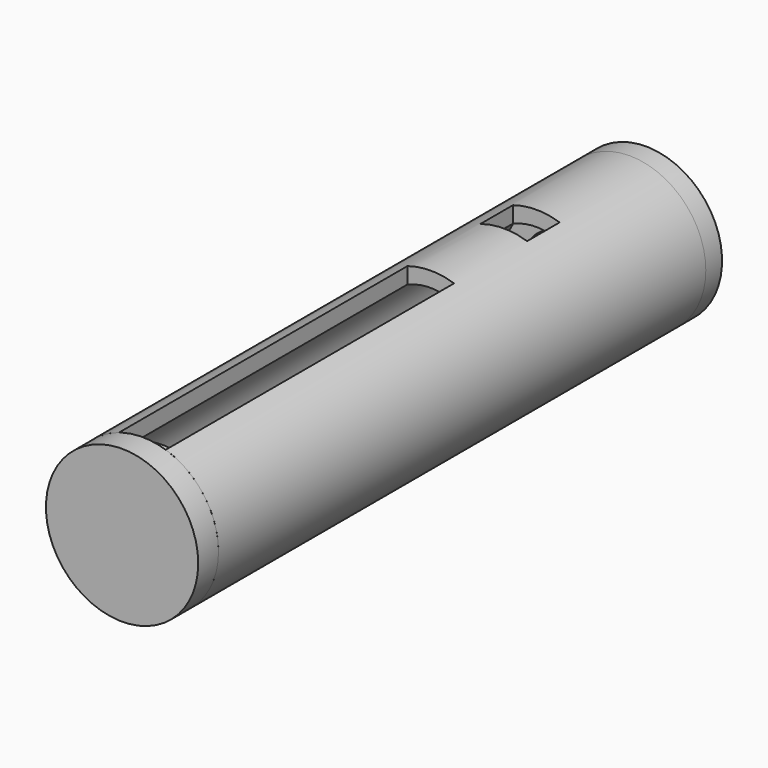
from build123d import *

# Parameters (mm, degrees)
F0_R      = 7.5
F0_R_2    = 6
F1_DEPTH  = 60
F2_R      = 6
F2_R_2    = 4.15
F3_DEPTH  = 8
F4_R      = 7.5
F5_DEPTH  = 2
F6_W      = 4.6
F6_H      = 65.5
F6_H_2    = 4
F7_DEPTH  = 25
F8_R      = 7.5
F9_DEPTH  = 2.5
F10_R     = 5.8
F11_DEPTH = 2.5


with BuildPart() as f1:
    # F0 (on Front) → F1 (new body)
    with BuildSketch(Plane.XZ):
        Circle(F0_R)
        Circle(F0_R_2, mode=Mode.SUBTRACT)
    extrude(amount=F1_DEPTH)

    # F2 (on face) → F3 (join)
    with BuildSketch(Plane(origin=(0, 0, 0), x_dir=(-1, 0, 0), z_dir=(0, 1, 0))):
        Circle(F2_R)
        Circle(F2_R_2, mode=Mode.SUBTRACT)
    extrude(amount=-F3_DEPTH)

    # F4 (on face) → F5 (join)
    with BuildSketch(Plane(origin=(0, 0, 0), x_dir=(-1, 0, 0), z_dir=(0, 1, 0))):
        Circle(F4_R)
    extrude(amount=F5_DEPTH)

    # F6 (on Top) → F7 (cut)
    with BuildSketch(Plane.XY):
        with Locations((0, -57.25)):
            Rectangle(F6_W, F6_H)
        with Locations((0, -13.5)):
            Rectangle(F6_W, F6_H_2)
    extrude(amount=F7_DEPTH, mode=Mode.SUBTRACT)


with BuildPart() as f9:
    # F8 (on face) → F9 (new body)
    with BuildSketch(Plane.XZ.offset(60)):
        Circle(F8_R)
    extrude(amount=F9_DEPTH)

    # F10 (on face) → F11 (join)
    with BuildSketch(Plane(origin=(0, -60, 0), x_dir=(-1, 0, 0), z_dir=(0, 1, 0))):
        Circle(F10_R)
    extrude(amount=F11_DEPTH)


solid = Compound([f1.part, f9.part])
